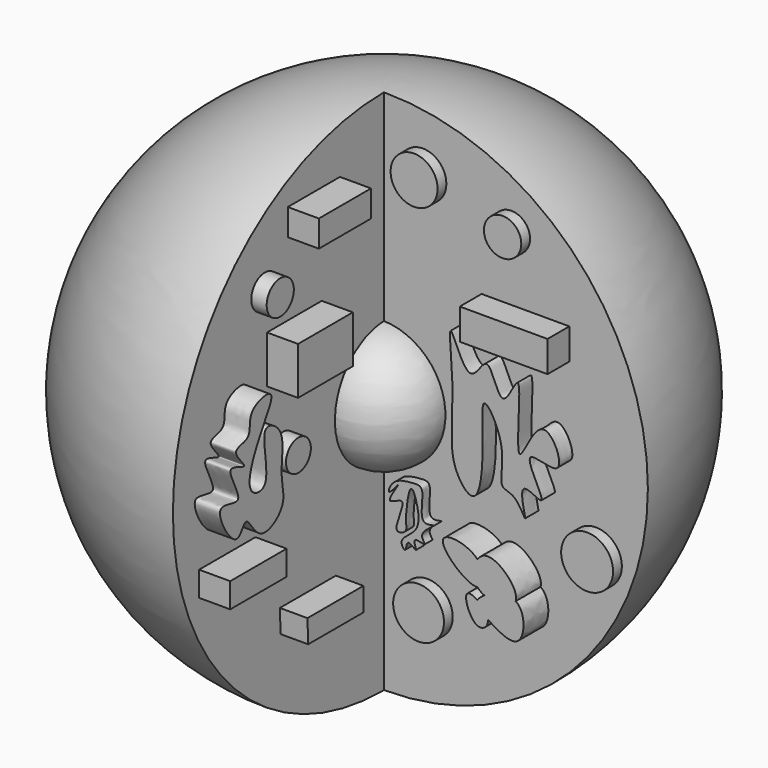
from build123d import *

# Parameters (mm, degrees)
F1_ANGLE  = 270
F5_DEPTH  = 7.9882945865
F7_DEPTH  = 2.7561495081
F9_DEPTH  = 4.7808364034
F11_DEPTH = 8.9666247368
F12_R     = 7.3550770062
F13_DEPTH = 3.1799599528
F12_R_2   = 5.4038461684
F12_R_3   = 6.8002957749
F12_R_4   = 7.5172019083
F14_R     = 4.500133635
F15_DEPTH = 4.466060549
F14_R_2   = 4.9162507247
F16_W     = 19.8225546628
F16_H     = 13.7493275106
F17_DEPTH = 9.0041048825
F16_W_2   = 20.3965455294
F16_H_2   = 7.1835070848
F16_W_3   = 18.8817400485
F16_H_3   = 7.6908990741
F18_W     = 25.4069697112
F18_H     = 8.9793503284
F19_DEPTH = 7.8933462501
F21_DEPTH = 7.3274355382


with BuildPart() as f1:
    # F0 (on Front) → F1 (revolve)
    with BuildSketch(Plane.XZ):
        with BuildLine():
            Line((0, 76.2063989147), (0, -76.1936010853))
            ThreePointArc((0, -76.1936010853), (76.4110603773, 0.0063989147), (0, 76.2063989147))
        make_face()
    revolve(axis=Axis((0, 0, 0.0063989147), (0, 0, 1)), revolution_arc=F1_ANGLE)


with BuildPart() as f3:
    # F2 (on Front) → F3 (revolve)
    with BuildSketch(Plane.XZ):
        with BuildLine():
            Line((0, 17.8871415555), (0, -18.5169316828))
            ThreePointArc((0, -18.5169316828), (17.7874683563, -0.3148950636), (0, 17.8871415555))
        make_face()
    revolve(axis=Axis((0, 0, -0.3148950636), (0, 0, 1)))


with BuildPart() as f5:
    # F4 (on Right) → F5 (new body)
    with BuildSketch(Plane.YZ):
        Polygon((-37.684280243, -39.9272076768), (-37.4285473263, -46.7050254363), (-17.4285473263, -46.7050254363), (-17.4285473263, -39.9272076768), align=None)
    extrude(amount=F5_DEPTH)


with BuildPart() as f7:
    # F6 (on face) → F7 (new body)
    with BuildSketch(Plane.XZ):
        with BuildLine():
            add(Edge.make_bspline(
                [(7.3728375137, -24.6100183576), (8.3430050921, -25.2814271276), (3.6593398243, -33.9125773041), (9.1507485756, -32.0178274572), (8.1439765514, -29.554539025), (9.680394328, -16.9163681285), (12.3714361552, -25.383542984), (12.4340924884, -31.1705172739), (5.9673308049, -34.1394324082), (8.8147225479, -37.9103003392), (8.5160648006, -32.9069285006), (12.6813840326, -37.2119953099), (9.6133207201, -31.92574523), (15.6013242834, -34.2790669447), (11.3401887736, -30.9320520787), (19.0887421821, -26.5845792637), (11.4808972996, -29.6294795147), (14.6920487299, -18.435003018), (9.9609305187, -18.9370424701), (4.6415644035, -19.3600083379), (2.6366421305, -25.3833206506), (8.7283686907, -17.4434568132), (1.188555169, -28.1374938283), (6.7169831372, -24.1561314313), (7.3728375137, -24.6100183576)],
                knots=[0, 0, 0, 0, 0.06365975, 0.0985442455, 0.1372149736, 0.2047734517, 0.2536309203, 0.3101403, 0.3642427034, 0.396022354, 0.4304984889, 0.4667156978, 0.5019691895, 0.5407821185, 0.5749443027, 0.6252900179, 0.6635339906, 0.7279090971, 0.767851694, 0.8224549475, 0.8603725103, 0.9041413711, 0.9569646249, 1, 1, 1, 1], degree=3))
        make_face()
    extrude(amount=F7_DEPTH)


with BuildPart() as f9:
    # F8 (on Front) → F9 (new body)
    with BuildSketch(Plane.XZ):
        with BuildLine():
            add(Edge.make_bspline(
                [(23.6529558897, 11.044383049), (23.8401626496, 2.6500169994), (21.6987504369, -8.2273317517), (31.5858030879, -19.7895074874), (32.8973545019, -0.4230374443), (31.4775568435, 14.2765498596), (39.9726374484, -0.1785534457), (36.2768141154, -11.0441180394), (42.1087772257, -10.3237218623), (46.2714756025, -20.225639676), (41.4380953427, -4.5188246769), (53.679774889, -14.1844227647), (40.7853743493, 4.7976864277), (58.4708182115, -4.7699185735), (49.5167915941, 16.2957333026), (40.3618381595, -11.9275271986), (44.9805786172, 27.3487517585), (37.7005258146, 6.3040977953), (34.1774381579, 25.2306608824), (28.5735878943, 10.0966856979), (21.3204271266, 32.7609399285), (23.5002900401, 17.8899319272), (23.6529558897, 11.044383049)],
                knots=[0, 0, 0, 0, 0.0737471456, 0.118621012, 0.18231752, 0.2326283996, 0.2857906162, 0.3366957409, 0.3696855699, 0.4062211643, 0.4504025012, 0.4875423443, 0.5397160945, 0.5853157073, 0.6350771392, 0.6885601919, 0.7571715661, 0.7995233878, 0.8471476326, 0.8872311061, 0.9398597003, 1, 1, 1, 1], degree=3))
        make_face()
    extrude(amount=F9_DEPTH)


with BuildPart() as f11:
    # F10 (on face) → F11 (new body)
    with BuildSketch(Plane.XZ):
        with BuildLine():
            add(Edge.make_bspline(
                [(34.2207811773, -38.5233503347), (33.0619649924, -37.7001934651), (31.8858239285, -37.2793587685), (31.3341394067, -37.7141162753)],
                knots=[0.8345471759, 0.8345471759, 0.8345471759, 0.8345471759, 1, 1, 1, 1], degree=3))
            add(Edge.make_bspline(
                [(31.3341394067, -37.7141162753), (30.0944473483, -38.6910612633), (33.3609384472, -47.7339207927), (37.4998273652, -44.2701475492), (37.213165313, -42.4687676132)],
                knots=[0, 0, 0, 0, 0.3717895718, 0.6346784966, 0.6346784966, 0.6346784966, 0.6346784966], degree=3))
            add(Edge.make_bspline(
                [(34.2207811773, -38.5233503347), (33.4566377601, -39.9949336429), (35.0721644528, -41.0945167914), (37.213165313, -42.4687676132)],
                knots=[0.8114609602, 0.8114609602, 0.8114609602, 0.8114609602, 1, 1, 1, 1], degree=3))
        make_face()
        with BuildLine():
            add(Edge.make_bspline(
                [(34.2207811773, -38.5233503347), (33.4566377601, -39.9949336429), (35.0721644528, -41.0945167914), (37.213165313, -42.4687676132)],
                knots=[0.8114609602, 0.8114609602, 0.8114609602, 0.8114609602, 1, 1, 1, 1], degree=3))
            add(Edge.make_bspline(
                [(37.213165313, -42.4687676132), (36.9952224468, -41.0992179873), (35.6206428092, -39.5177321305), (34.2207811773, -38.5233503347)],
                knots=[0.6346784966, 0.6346784966, 0.6346784966, 0.6346784966, 0.8345471759, 0.8345471759, 0.8345471759, 0.8345471759], degree=3))
        make_face()
        with BuildLine():
            add(Edge.make_bspline(
                [(37.213165313, -42.4687676132), (36.9952224468, -41.0992179873), (35.6206428092, -39.5177321305), (34.2207811773, -38.5233503347)],
                knots=[0.6346784966, 0.6346784966, 0.6346784966, 0.6346784966, 0.8345471759, 0.8345471759, 0.8345471759, 0.8345471759], degree=3))
            add(Edge.make_bspline(
                [(37.213165313, -42.4687676132), (40.1294722525, -44.340666538), (48.0543596065, -49.1908197863), (48.2434040499, -36.9946683568), (45.3084409237, -35.1494066417)],
                knots=[0, 0, 0, 0, 0.2568134, 0.5230225546, 0.5230225546, 0.5230225546, 0.5230225546], degree=3))
            add(Edge.make_bspline(
                [(36.2344719274, -36.6089037925), (39.4996769441, -38.0843667125), (44.4568994014, -37.5207201499), (45.3084409237, -35.1494066417)],
                knots=[0.7287137355, 0.7287137355, 0.7287137355, 0.7287137355, 1, 1, 1, 1], degree=3))
            add(Edge.make_bspline(
                [(36.2344719274, -36.6089037925), (35.2724886844, -37.2307950522), (34.5395624041, -37.9094431522), (34.2207811773, -38.5233503347)],
                knots=[0.732807261, 0.732807261, 0.732807261, 0.732807261, 0.8114609602, 0.8114609602, 0.8114609602, 0.8114609602], degree=3))
        make_face()
        with BuildLine():
            add(Edge.make_bspline(
                [(36.2344719274, -36.6089037925), (39.4996769441, -38.0843667125), (44.4568994014, -37.5207201499), (45.3084409237, -35.1494066417)],
                knots=[0.7287137355, 0.7287137355, 0.7287137355, 0.7287137355, 1, 1, 1, 1], degree=3))
            add(Edge.make_bspline(
                [(45.3084409237, -35.1494066417), (42.995558864, -33.6952579752), (38.8002682536, -34.9501989025), (36.2344719274, -36.6089037925)],
                knots=[0.5230225546, 0.5230225546, 0.5230225546, 0.5230225546, 0.732807261, 0.732807261, 0.732807261, 0.732807261], degree=3))
        make_face()
        with BuildLine():
            add(Edge.make_bspline(
                [(45.3084409237, -35.1494066417), (42.995558864, -33.6952579752), (38.8002682536, -34.9501989025), (36.2344719274, -36.6089037925)],
                knots=[0.5230225546, 0.5230225546, 0.5230225546, 0.5230225546, 0.732807261, 0.732807261, 0.732807261, 0.732807261], degree=3))
            add(Edge.make_bspline(
                [(45.3084409237, -35.1494066417), (46.4242943921, -32.0420556395), (38.8762051511, -24.1413478218), (34.8472888637, -27.1685975619), (34.2207811773, -28.0740115085)],
                knots=[0, 0, 0, 0, 0.3554914367, 0.452177952, 0.452177952, 0.452177952, 0.452177952], degree=3))
            add(Edge.make_bspline(
                [(34.2207811773, -35.1494066417), (36.5527694644, -34.8034622538), (36.6604897712, -30.6591238812), (34.2207811773, -28.0740115085)],
                knots=[0, 0, 0, 0, 0.280226381, 0.280226381, 0.280226381, 0.280226381], degree=3))
            add(Edge.make_bspline(
                [(34.2207811773, -35.1494066417), (34.7326996804, -35.7611829335), (35.4325576548, -36.2465391728), (36.2344719274, -36.6089037925)],
                knots=[0.6620874973, 0.6620874973, 0.6620874973, 0.6620874973, 0.7287137355, 0.7287137355, 0.7287137355, 0.7287137355], degree=3))
        make_face()
        with BuildLine():
            add(Edge.make_bspline(
                [(34.2207811773, -35.1494066417), (36.5527694644, -34.8034622538), (36.6604897712, -30.6591238812), (34.2207811773, -28.0740115085)],
                knots=[0, 0, 0, 0, 0.280226381, 0.280226381, 0.280226381, 0.280226381], degree=3))
            add(Edge.make_bspline(
                [(34.2207811773, -28.0740115085), (32.8606127707, -30.0396944073), (32.6079544143, -33.2219725477), (34.2207811773, -35.1494066417)],
                knots=[0.452177952, 0.452177952, 0.452177952, 0.452177952, 0.6620874973, 0.6620874973, 0.6620874973, 0.6620874973], degree=3))
        make_face()
        with BuildLine():
            add(Edge.make_bspline(
                [(34.2207811773, -28.0740115085), (32.8606127707, -30.0396944073), (32.6079544143, -33.2219725477), (34.2207811773, -35.1494066417)],
                knots=[0.452177952, 0.452177952, 0.452177952, 0.452177952, 0.6620874973, 0.6620874973, 0.6620874973, 0.6620874973], degree=3))
            add(Edge.make_bspline(
                [(34.2207811773, -28.0740115085), (31.2997302739, -24.9788693876), (17.1991141857, -23.1339902943), (31.0230459918, -35.6237823269), (34.2207811773, -35.1494066417)],
                knots=[0.280226381, 0.280226381, 0.280226381, 0.280226381, 0.6157400261, 1, 1, 1, 1], degree=3))
        make_face()
    extrude(amount=F11_DEPTH)


with BuildPart() as f13:
    # F12 (on Front) → F13 (new body)
    with BuildSketch(Plane.XZ):
        with Locations((12.5511363149, -51.0992258787)):
            Circle(F12_R)
    extrude(amount=F13_DEPTH)


with BuildPart() as f13b:
    # F12 (on Front) → F13, piece 2 (new body)
    with BuildSketch(Plane.XZ):
        with Locations((36.8889570236, 52.591599524)):
            Circle(F12_R_2)
    extrude(amount=F13_DEPTH)


with BuildPart() as f13c:
    # F12 (on Front) → F13, piece 3 (new body)
    with BuildSketch(Plane.XZ):
        with Locations((11.2532898784, 58.7487146258)):
            Circle(F12_R_3)
    extrude(amount=F13_DEPTH)


with BuildPart() as f13d:
    # F12 (on Front) → F13, piece 4 (new body)
    with BuildSketch(Plane.XZ):
        with Locations((61.3599345088, -22.2558453679)):
            Circle(F12_R_4)
    extrude(amount=F13_DEPTH)


with BuildPart() as f15:
    # F14 (on Right) → F15 (new body)
    with BuildSketch(Plane.YZ):
        with Locations((-36.5550592542, 0)):
            Circle(F14_R)
    extrude(amount=F15_DEPTH)


with BuildPart() as f15b:
    # F14 (on Right) → F15, piece 2 (new body)
    with BuildSketch(Plane.YZ):
        with Locations((-43.1334152818, 42.8839065135)):
            Circle(F14_R_2)
    extrude(amount=F15_DEPTH)


with BuildPart() as f17:
    # F16 (on Right) → F17 (new body)
    with BuildSketch(Plane.YZ):
        with Locations((-32.4468454346, 25.3199432045)):
            Rectangle(F16_W, F16_H)
    extrude(amount=F17_DEPTH)


with BuildPart() as f17b:
    # F16 (on Right) → F17, piece 2 (new body)
    with BuildSketch(Plane.YZ):
        with Locations((-56.7164197564, -21.8867156655)):
            Rectangle(F16_W_2, F16_H_2)
    extrude(amount=F17_DEPTH)


with BuildPart() as f17c:
    # F16 (on Right) → F17, piece 3 (new body)
    with BuildSketch(Plane.YZ):
        with Locations((-25.3906166181, 57.2648532689)):
            Rectangle(F16_W_3, F16_H_3)
    extrude(amount=F17_DEPTH)


with BuildPart() as f19:
    # F18 (on face) → F19 (new body)
    with BuildSketch(Plane.XZ):
        with Locations((40.9627491608, 29.4928662479)):
            Rectangle(F18_W, F18_H)
    extrude(amount=F19_DEPTH)


with BuildPart() as f21:
    # F20 (on Right) → F21 (new body)
    with BuildSketch(Plane.YZ):
        with BuildLine():
            add(Edge.make_bspline(
                [(-46.1218170822, -8.3275297657), (-44.8856487776, -5.8351119192), (-47.4999928356, -0.1276583936), (-44.1120762688, 11.4356593576), (-55.5142900817, 17.2319678624), (-48.8535776095, -2.2419660775), (-59.9206475168, -0.874131297), (-55.6607393199, 11.9044518093), (-46.1961112284, 24.2315880791), (-59.3458093117, 21.324615296), (-56.2782560793, 13.1619573736), (-65.8916942514, 13.7234344826), (-56.2829209247, 5.1311758029), (-68.8650091768, 12.1333947038), (-57.4535484215, -3.8572518413), (-73.0760612086, 4.3061045369), (-62.2299772756, -14.697874706), (-59.2023303993, -3.3214345455), (-54.6444960667, -15.455185754), (-47.3748234696, -10.8538973083), (-46.1218170822, -8.3275297657)],
                knots=[0, 0, 0, 0, 0.0580093636, 0.1257210991, 0.1735631765, 0.2478377417, 0.2915518113, 0.3616373389, 0.428450685, 0.4813123875, 0.530527906, 0.5742215383, 0.6213368137, 0.6657090221, 0.725904885, 0.7759665067, 0.8437725797, 0.8863899201, 0.9412004799, 1, 1, 1, 1], degree=3))
        make_face()
    extrude(amount=F21_DEPTH)


solid = Compound([f1.part, f3.part, f5.part, f7.part, f9.part, f11.part, f13.part, f13b.part, f13c.part, f13d.part, f15.part, f15b.part, f17.part, f17b.part, f17c.part, f19.part, f21.part])
